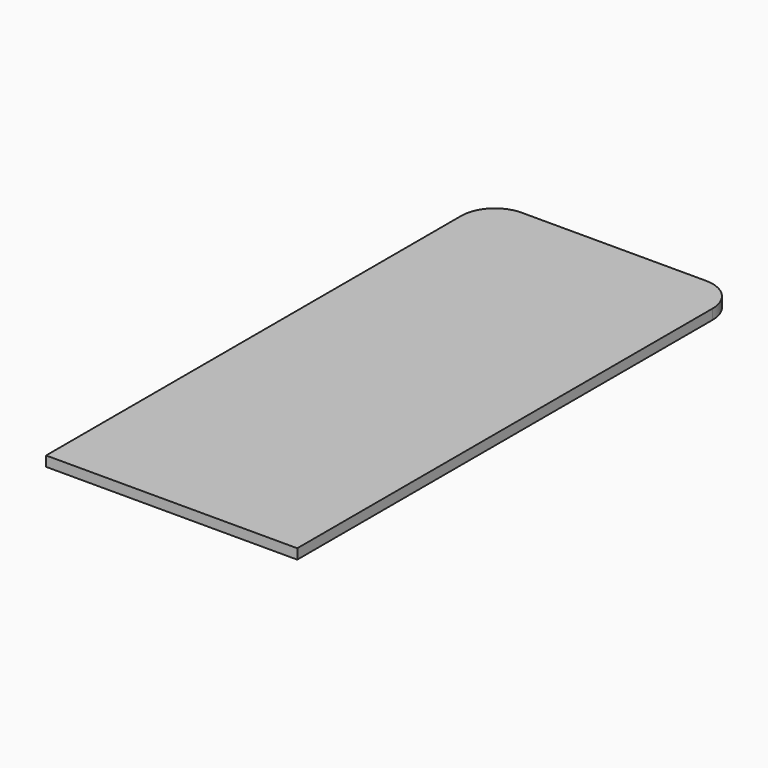
from build123d import *

# Parameters (mm, degrees)
F1_DEPTH = 3


with BuildPart() as f1:
    # F0 (on Top) → F1 (new body)
    with BuildSketch(Plane.XY):
        with BuildLine():
            ThreePointArc((37.5, 72.5), (34.571068, 79.571068), (27.5, 82.5))
            Line((27.5, 82.5), (-27.5, 82.5))
            ThreePointArc((-27.5, 82.5), (-34.571068, 79.571068), (-37.5, 72.5))
            Line((-37.5, 72.5), (-37.5, -82.5))
            Line((-37.5, -82.5), (37.5, -82.5))
            Line((37.5, -82.5), (37.5, 72.5))
        make_face()
    extrude(amount=F1_DEPTH)


solid = f1.part
